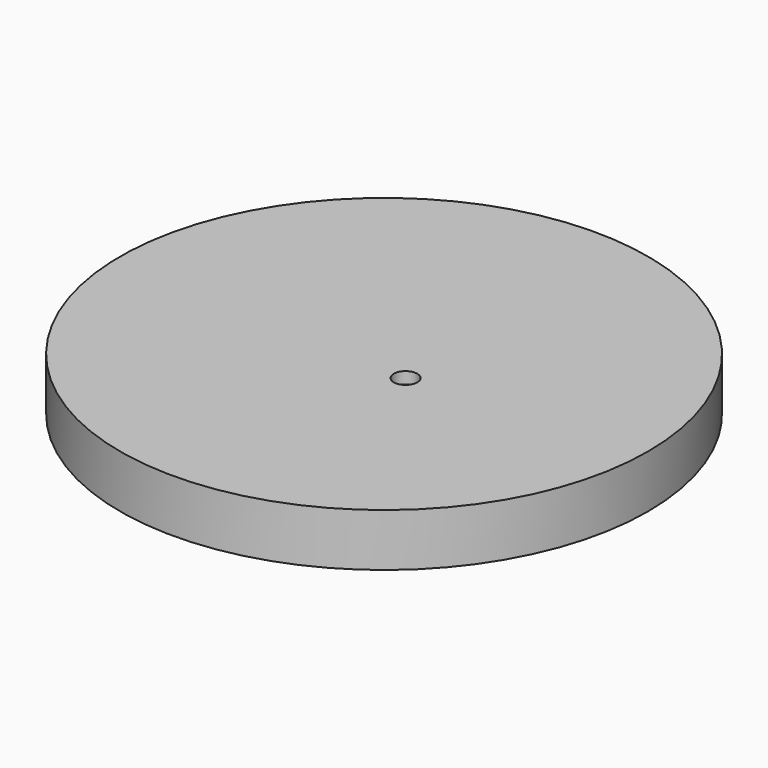
from build123d import *

# Parameters (mm, degrees)
F0_R     = 45
F0_R_2   = 2
F1_DEPTH = 9
F2_DEPTH = 7
F3_DEPTH = 2


with BuildPart() as f1:
    # F0 (on Top) → F1 (new body)
    with BuildSketch(Plane.XY):
        Circle(F0_R)
        with Locations((-38.351216, -14.497732)):
            Circle(F0_R_2, mode=Mode.SUBTRACT)
        with Locations((6.5625, -3.630922)):
            Circle(F0_R_2, mode=Mode.SUBTRACT)
        with Locations((38.351216, -14.497732)):
            Circle(F0_R_2, mode=Mode.SUBTRACT)
        Circle(F0_R_2, mode=Mode.SUBTRACT)
        with Locations((0, 41)):
            Circle(F0_R_2, mode=Mode.SUBTRACT)
        with Locations((6.5625, -3.630922)):
            Circle(F0_R_2)
    extrude(amount=-F1_DEPTH)

    # F0 (on Top) → F2 (join)
    with BuildSketch(Plane.XY):
        Circle(F0_R_2)
        with Locations((0, 41)):
            Circle(F0_R_2)
        with Locations((38.351216, -14.497732)):
            Circle(F0_R_2)
        with Locations((-38.351216, -14.497732)):
            Circle(F0_R_2)
    extrude(amount=-F2_DEPTH)

    # F0 (on Top) → F3 (cut)
    with BuildSketch(Plane.XY):
        with Locations((6.5625, -3.630922)):
            Circle(F0_R_2)
    extrude(amount=-F3_DEPTH, mode=Mode.SUBTRACT)


solid = f1.part
